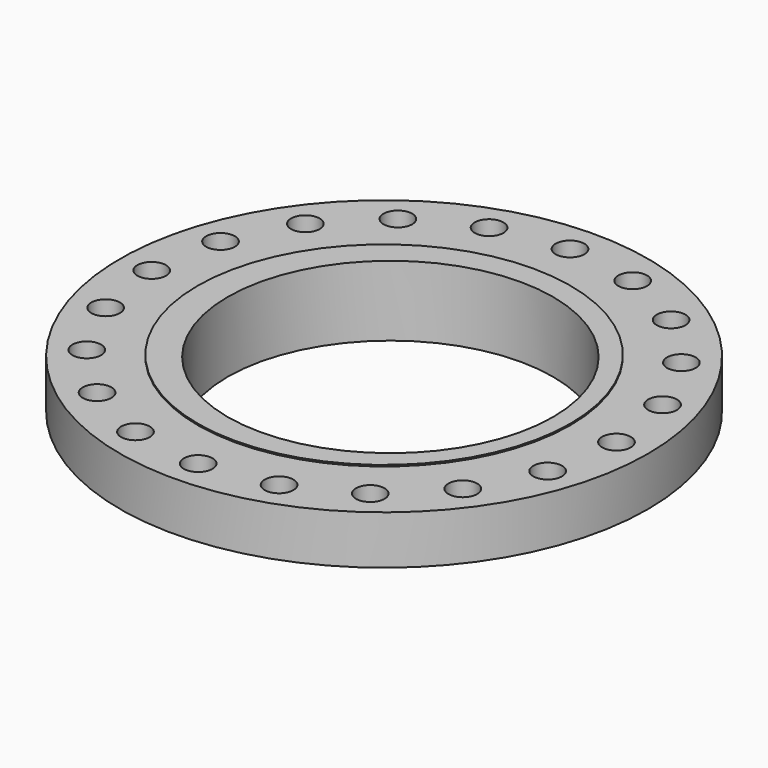
from build123d import *

# Parameters (mm, degrees)
F0_R     = 292.1
F1_DEPTH = 53.975
F2_R     = 206.375
F3_DEPTH = 1.5875
F4_R     = 212.725
F5_DEPTH = 22.225
F5_TAPER = 3
F6_R     = 180
F7_DEPTH = 77.7885001
F9_D     = 31.75


with BuildPart() as f1:
    # F0 (on Top) → F1 (new body)
    with BuildSketch(Plane.XY):
        Circle(F0_R)
    extrude(amount=-F1_DEPTH)

    # F2 (on face) → F3 (join)
    with BuildSketch(Plane.XY):
        Circle(F2_R)
    extrude(amount=F3_DEPTH)

    # F4 (on face) → F5 (join)
    with BuildSketch(Plane(origin=(0, 0, -53.975), x_dir=(1, 0, 0), z_dir=(0, 0, -1))):
        Circle(F4_R)
    extrude(amount=F5_DEPTH, taper=F5_TAPER)

    # F6 (on face) → F7 (cut, through all)
    with BuildSketch(Plane.XY.offset(1.5875)):
        with Locations((6.9869458067, 0)):
            Circle(F6_R)
    extrude(amount=-F7_DEPTH, mode=Mode.SUBTRACT)

    # F9 (through all)
    with Locations(Plane.XY):
        with Locations((244.5879595782, 79.4714455284), (208.0589455284, 151.1636722583), (151.1636722583, 208.0589455284), (79.4714455284, 244.5879595782), (0, 257.175), (-79.4714455284, 244.5879595782), (-151.1636722583, 208.0589455284), (-208.0589455284, 151.1636722583), (-244.5879595782, 79.4714455284), (-257.175, 0), (-244.5879595782, -79.4714455284), (-208.0589455284, -151.1636722583), (-151.1636722583, -208.0589455284), (-79.4714455284, -244.5879595782), (0, -257.175), (79.4714455284, -244.5879595782), (151.1636722583, -208.0589455284), (208.0589455284, -151.1636722583), (244.5879595782, -79.4714455284), (257.175, 0)):
            Hole(F9_D / 2)


solid = f1.part
